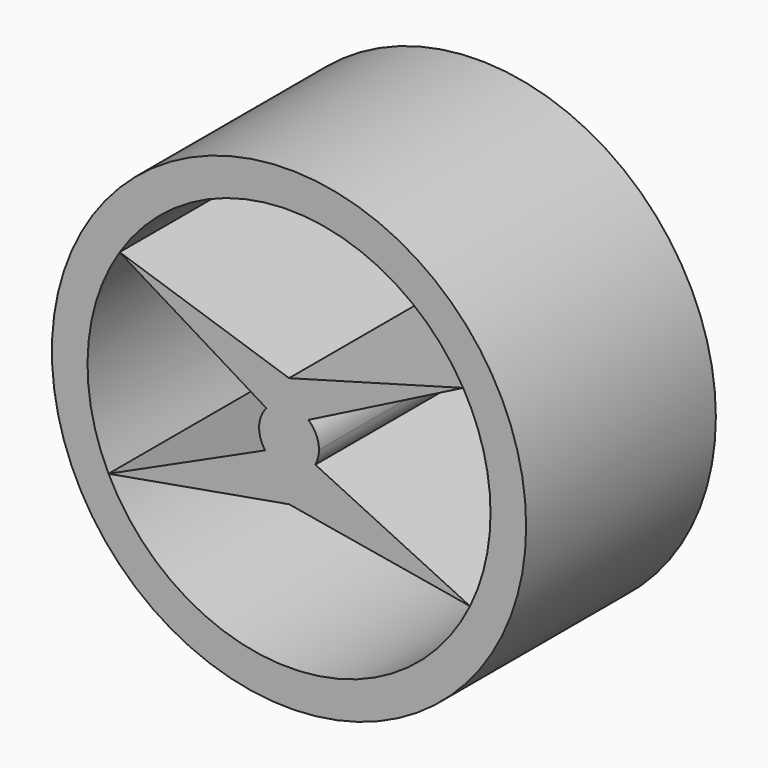
from build123d import *

# Parameters (mm, degrees)
F0_R     = 25
F1_DEPTH = 25
F3_DEPTH = 30
F4_DEPTH = 25


with BuildPart() as f1:
    # F0 (on Front) → F1 (new body)
    with BuildSketch(Plane.XZ):
        Circle(F0_R)
    extrude(amount=F1_DEPTH)

    # F2 (on face) → F3 (cut)
    with BuildSketch(Plane.XZ.offset(25)):
        with BuildLine():
            Line((0, 5.620659), (18.36088, 10.686402))
            ThreePointArc((18.36088, 10.686402), (0.481924, 21.238852), (-17.857269, 11.508216))
            Line((-17.857269, 11.508216), (0, 5.620659))
        make_face()
        with BuildLine():
            ThreePointArc((-19.032019, -9.439457), (0.057919, -21.24424), (19.083206, -9.335542))
            Line((19.083206, -9.335542), (0, -6.079973))
            Line((0, -6.079973), (-19.032019, -9.439457))
        make_face()
    extrude(amount=-F3_DEPTH, mode=Mode.SUBTRACT)

    # F2 (on face) → F4 (cut)
    with BuildSketch(Plane.XZ.offset(25)):
        with BuildLine():
            Line((-2.390367, 2.059839), (-17.857269, 11.508216))
            ThreePointArc((-17.857269, 11.508216), (-21.210991, 1.189517), (-19.032019, -9.439457))
            Line((-19.032019, -9.439457), (-2.51914, -1.900191))
            ThreePointArc((-2.51914, -1.900191), (-3.153771, 0.102555), (-2.390367, 2.059839))
        make_face()
        with BuildLine():
            ThreePointArc((19.083206, -9.335542), (20.69699, -4.79121), (21.244319, 0))
            ThreePointArc((21.244319, 0), (20.510796, 5.534289), (18.36088, 10.686402))
            Line((18.36088, 10.686402), (2.039434, 2.407799))
            ThreePointArc((2.039434, 2.407799), (2.862874, 1.326929), (3.155438, 0))
            ThreePointArc((3.155438, 0), (3.058071, -0.777813), (2.771977, -1.507624))
            Line((2.771977, -1.507624), (19.083206, -9.335542))
        make_face()
    extrude(amount=-F4_DEPTH, mode=Mode.SUBTRACT)


solid = f1.part
